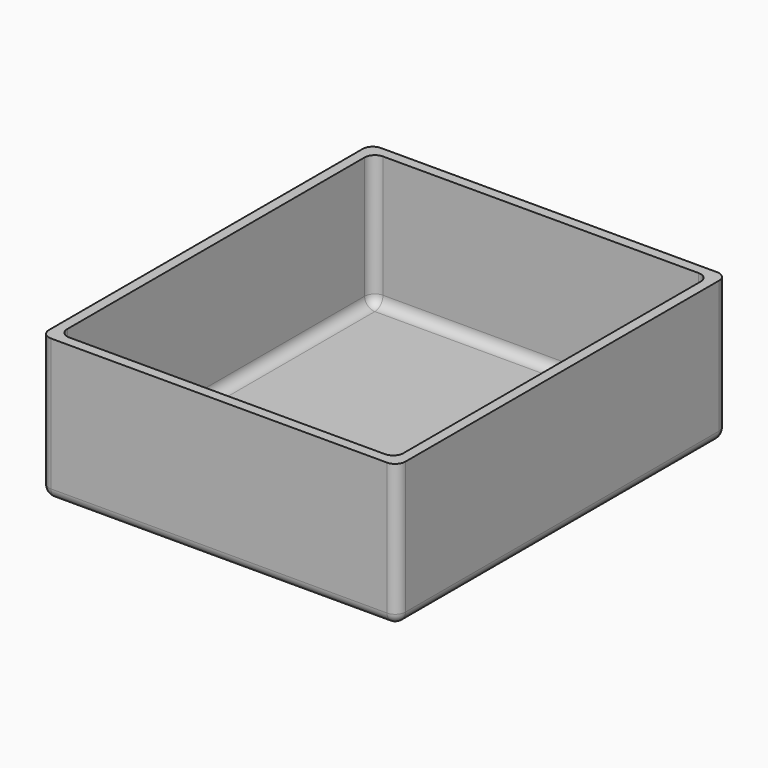
from build123d import *

# Parameters (mm, degrees)
BOX003_W     = 66
BOX003_H     = 77
BOX003_DEPTH = 39
FILLET001_R  = 2
BOX002_W     = 70
BOX002_H     = 81
BOX002_DEPTH = 28
FILLET_R     = 2


with BuildPart() as bottomcut:
    # Box003 → Box003 (new body)
    with BuildSketch(Plane(origin=(2, 2, 2), x_dir=(1, 0, 0), z_dir=(0, 0, 1))):
        with Locations((33, 38.5)):
            Rectangle(BOX003_W, BOX003_H)
    extrude(amount=BOX003_DEPTH)

    # Fillet001
    fillet001_edges = [bottomcut.edges().sort_by_distance(p)[0] for p in [
        (2, 2, 21.5),
        (2, 79, 21.5),
        (2, 40.5, 2),
        (68, 2, 21.5),
        (68, 79, 21.5),
        (68, 40.5, 2),
        (35, 2, 2),
        (35, 79, 2),
    ]]
    fillet(fillet001_edges, radius=FILLET001_R)


with BuildPart() as bottom003:
    # Box002 → Box002 (new body)
    with BuildSketch(Plane.XY):
        with Locations((35, 40.5)):
            Rectangle(BOX002_W, BOX002_H)
    extrude(amount=BOX002_DEPTH)

    # Fillet
    fillet_edges = [bottom003.edges().sort_by_distance(p)[0] for p in [
        (0, 0, 14),
        (0, 81, 14),
        (0, 40.5, 0),
        (70, 0, 14),
        (70, 81, 14),
        (70, 40.5, 0),
        (35, 0, 0),
        (35, 81, 0),
    ]]
    fillet(fillet_edges, radius=FILLET_R)

    # Cut: cut bottomCut
    add(bottomcut.part, mode=Mode.SUBTRACT)


solid = bottom003.part
